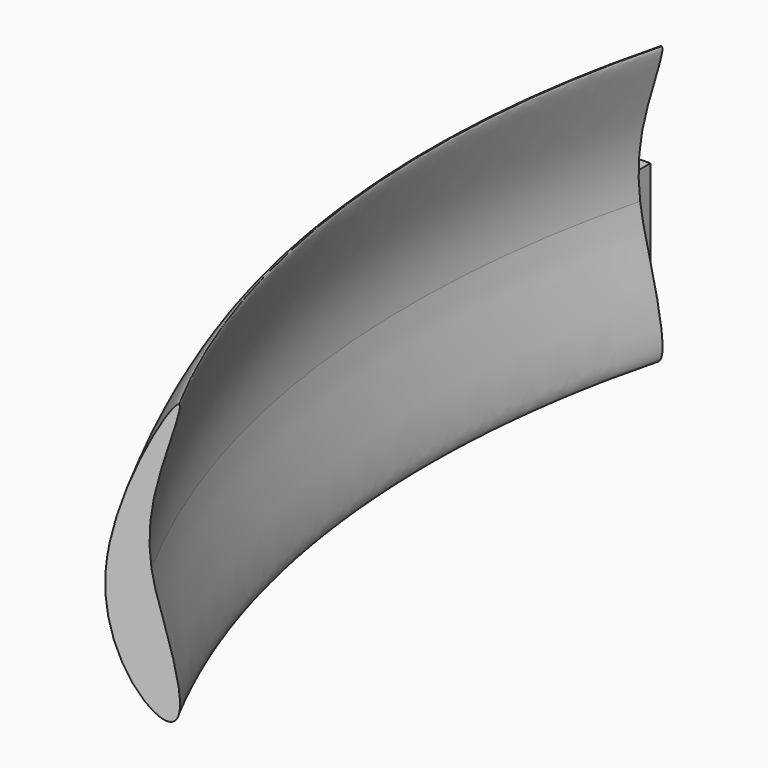
from build123d import *

# Parameters (mm, degrees)
F3_W     = 2.3368
F3_H     = 12.3444
F4_DEPTH = 2.54


with BuildPart() as f2:
    # F2: sweep along a path in F1
    with BuildLine(Plane.XY) as f2_path:
        ThreePointArc((0, 0), (-3.0846366725, -51.2417118823), (12.740669772, -100.076))
    # F0 (on Front) → F2 (sweep)
    with BuildSketch(Plane.XZ):
        with BuildLine():
            add(Edge.make_bspline(
                [(1.8840861331, 0.7432309887), (1.5657759247, 3.3063064253), (1.425910505, 9.6806119586), (5.415280297, 20.1631523382), (4.8200496055, 20.34914819)],
                knots=[0.7192851977, 0.7192851977, 0.7192851977, 0.7192851977, 0.8599799909, 1, 1, 1, 1], degree=3))
            add(Edge.make_bspline(
                [(4.8200496055, 20.34914819), (3.9443546689, 20.6227826447), (-2.5265436583, 9.9821129464), (-3.0325743014, 0.3990647478)],
                knots=[0, 0, 0, 0, 0.205995448, 0.205995448, 0.205995448, 0.205995448], degree=3))
            Line((-3.0325743014, 0.3990647478), (1.8840861331, 0.7432309887))
        make_face()
        with BuildLine():
            Line((1.8840861331, 0.7432309887), (-3.0325743014, 0.3990647478))
            add(Edge.make_bspline(
                [(-3.0325743014, 0.3990647478), (-3.5130586016, -8.7001948927), (2.7153021081, -19.0598318841), (5.7868780828, -16.8960776943), (3.1251076014, -5.2015512719), (2.1446319282, -1.3547178352), (1.8840861331, 0.7432309887)],
                knots=[0.205995448, 0.205995448, 0.205995448, 0.205995448, 0.4015914659, 0.4547520607, 0.6041225802, 0.7192851977, 0.7192851977, 0.7192851977, 0.7192851977], degree=3))
        make_face()
    sweep(path=f2_path.line)

    # F3 (on face) → F4 (join)
    with BuildSketch(Plane(origin=(0, 0, 0), x_dir=(-1, 0, 0), z_dir=(0, 1, 0))):
        with Locations((-0.0761999309, -2.0960836801)):
            Rectangle(F3_W, F3_H)
    extrude(amount=F4_DEPTH)


with BuildPart() as f5_1:
    # F5: copy of F2
    add(f2.part)


solid = Compound([f2.part, f5_1.part])
